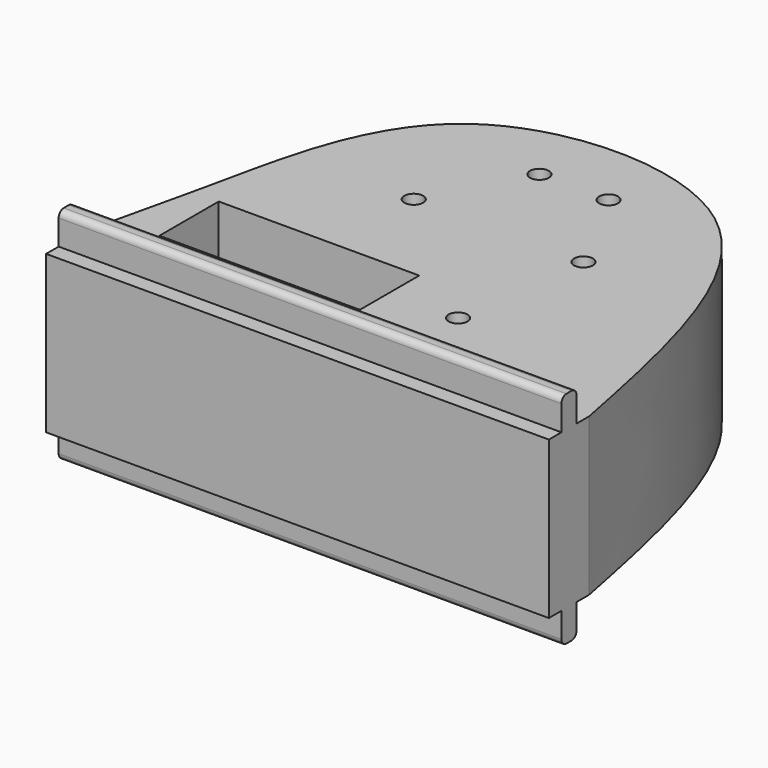
from build123d import *

# Parameters (mm, degrees)
F0_R     = 1.5
F1_DEPTH = 25
F2_DEPTH = 25
F0_W     = 4.7
F0_H     = 11.8
F0_H_2   = 5.9
F3_DEPTH = 14.2
F5_DEPTH = 25
F4_W     = 80
F4_H     = 3
F6_DEPTH = 5
F7_DEPTH = 35
F8_R     = 1


with BuildPart() as f1:
    # F0 (on Top) → F1 (new body)
    with BuildSketch(Plane.XY):
        Polygon((0, 40), (0, 0), (40, 0), (80, 0), (80, 40), align=None)
        with Locations((26.5, 10)):
            Circle(F0_R, mode=Mode.SUBTRACT)
        with BuildLine():
            ThreePointArc((36, 25), (35.5606601718, 23.9393398282), (34.5, 23.5))
            ThreePointArc((34.5, 23.5), (33.4393398282, 26.0606601718), (36, 25))
        make_face(mode=Mode.SUBTRACT)
        with BuildLine():
            ThreePointArc((55, 10), (53.5, 8.5), (52, 10))
            ThreePointArc((52, 10), (53.5, 11.5), (55, 10))
        make_face(mode=Mode.SUBTRACT)
        with BuildLine():
            ThreePointArc((47, 25), (46.5606601718, 23.9393398282), (45.5, 23.5))
            ThreePointArc((45.5, 23.5), (44.4393398282, 26.0606601718), (47, 25))
        make_face(mode=Mode.SUBTRACT)
    extrude(amount=F1_DEPTH)

    # F0 (on Top) → F2 (join)
    with BuildSketch(Plane.XY):
        Polygon((40, 0), (0, 0), (0, -30), (80, -30), (80, 0), align=None)
        Polygon((39.85, -5.6), (39.85, -11.5), (39.85, -17.4), (35.15, -17.4), (12.65, -17.4), (7.95, -17.4), (7.95, -5.6), (12.65, -5.6), (35.15, -5.6), align=None, mode=Mode.SUBTRACT)
        with Locations((50.75, -11.5)):
            Circle(F0_R, mode=Mode.SUBTRACT)
    extrude(amount=F2_DEPTH)

    # F0 (on Top) → F3 (join)
    with BuildSketch(Plane.XY):
        with Locations((10.3, -11.5)):
            Rectangle(F0_W, F0_H)
        with Locations((37.5, -8.55)):
            Rectangle(F0_W, F0_H_2)
        with Locations((37.5, -14.45)):
            Rectangle(F0_W, F0_H_2)
    extrude(amount=F3_DEPTH)

    # F4 (on face) → F5 (cut)
    with BuildSketch(Plane.XY.offset(25)):
        with BuildLine():
            add(Edge.make_bspline(
                [(0, -22), (1.5830030705, -15.2480369582), (5.0835925822, -0.3170166418), (12.6225982047, 37.0911590405), (68.0718145624, 38.2827382441), (75.786729565, -0.7069474975), (80, -22)],
                knots=[0, 0, 0, 0, 0.1957668902, 0.4329110507, 0.6903013055, 1, 1, 1, 1], degree=3))
            Line((80, -22), (80, 40))
            Line((80, 40), (0, 40))
            Line((0, 40), (0, -22))
        make_face()
    extrude(amount=-F5_DEPTH, mode=Mode.SUBTRACT)

    # F4 (on face) → F6 (join)
    with BuildSketch(Plane.XY.offset(25)):
        with Locations((40, -26)):
            Rectangle(F4_W, F4_H)
    extrude(amount=F6_DEPTH)

    # F7 (add): a face of the model
    f7_faces = [f1.faces().sort_by_distance(p)[0] for p in [
        (40, -26, 30),
    ]]
    extrude(f7_faces, amount=-F7_DEPTH)

    # F8
    f8_edges = [f1.edges().sort_by_distance(p)[0] for p in [
        (40, -24.5, 30),
        (40, -27.5, 30),
        (40, -24.5, -5),
        (40, -27.5, -5),
    ]]
    fillet(f8_edges, radius=F8_R)


solid = f1.part
